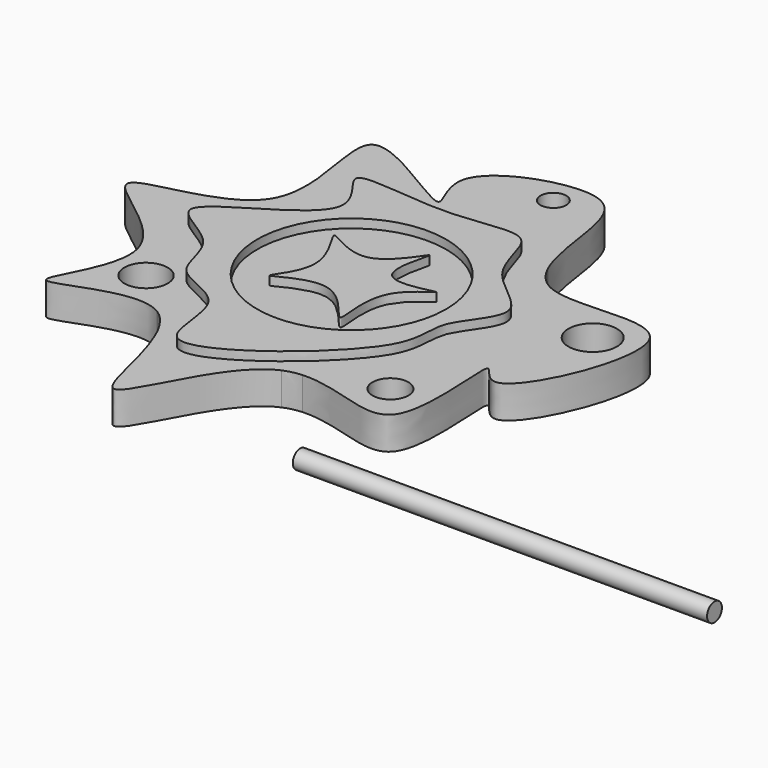
from build123d import *

# Parameters (mm, degrees)
F0_R     = 1.3266147944
F0_R_2   = 1.1040610952
F0_R_3   = 1.4856293309
F0_R_4   = 0.7882424869
F1_DEPTH = 2
F0_R_5   = 5.7945856742
F2_DEPTH = 2.54
F3_R     = 0.568069392
F4_DEPTH = 25.4


with BuildPart() as f1:
    # F0 (on Top) → F1 (new body)
    with BuildSketch(Plane.XY):
        with BuildLine():
            add(Edge.make_bspline(
                [(-10.3611879519, 18.0462677779), (-10.3534947122, 18.04732013), (-10.3464485535, 18.0489561773), (-10.3400231717, 18.0511613673)],
                knots=[0, 0, 0, 0, 0.0008159217, 0.0008159217, 0.0008159217, 0.0008159217], degree=3))
            add(Edge.make_bspline(
                [(-16.328030466, 14.7703708368), (-16.0777830551, 17.1647474658), (-18.9384674421, 24.0503093541), (-10.9426768913, 17.9667263684), (-10.3611879519, 18.0462677779)],
                knots=[0.8847411053, 0.8847411053, 0.8847411053, 0.8847411053, 0.9383290457, 1, 1, 1, 1], degree=3))
            add(Edge.make_bspline(
                [(-16.7616909927, 13.350264866), (-16.5136502492, 13.7595204058), (-16.3828807081, 14.2455616601), (-16.328030466, 14.7703708368)],
                knots=[0.8729954833, 0.8729954833, 0.8729954833, 0.8729954833, 0.8847411053, 0.8847411053, 0.8847411053, 0.8847411053], degree=3))
            add(Edge.make_bspline(
                [(-13.7359780839, 0.7760394568), (-13.7642567215, 0.793738842), (-15.7978179849, 2.00349997), (-22.8466429648, -2.5487526862), (-15.3548952974, 6.094467952), (-27.6246006279, 11.2080666698), (-18.1069238288, 11.1306940699), (-16.7616909927, 13.350264866)],
                knots=[0.6304999298, 0.6304999298, 0.6304999298, 0.6304999298, 0.6313481499, 0.6908201161, 0.7465426875, 0.8092938663, 0.8729954833, 0.8729954833, 0.8729954833, 0.8729954833], degree=3))
            add(Edge.make_bspline(
                [(-12.7324720602, -0.2993813963), (-13.0156097942, 0.1562276051), (-13.3455613883, 0.5316806025), (-13.7359780839, 0.7760394568)],
                knots=[0.6187893475, 0.6187893475, 0.6187893475, 0.6187893475, 0.6304999298, 0.6304999298, 0.6304999298, 0.6304999298], degree=3))
            add(Edge.make_bspline(
                [(-5.2768478841, -0.2791737885), (-7.9289988902, -1.4403188282), (-10.7565569942, -11.5590904962), (-11.360652058, -2.506835459), (-12.7324720602, -0.2993813963)],
                knots=[0.4931839396, 0.4931839396, 0.4931839396, 0.4931839396, 0.5620508454, 0.6187893475, 0.6187893475, 0.6187893475, 0.6187893475], degree=3))
            add(Edge.make_bspline(
                [(-4.1832758995, -0.0263248454), (-4.5607895325, -0.0497565931), (-4.9283322804, -0.1265892775), (-5.2768478841, -0.2791737885)],
                knots=[0.4841342319, 0.4841342319, 0.4841342319, 0.4841342319, 0.4931839396, 0.4931839396, 0.4931839396, 0.4931839396], degree=3))
            add(Edge.make_bspline(
                [(-0.4930524154, 14.4332359741), (1.500043002, 13.5677170511), (9.868936337, 16.7021215402), (3.9262079757, 2.7738392827), (1.5491255083, 8.2220871862), (3.704092928, -3.7111150646), (-1.9092052154, 0.1148235681), (-4.1832758995, -0.0263248454)],
                knots=[0.2049639017, 0.2049639017, 0.2049639017, 0.2049639017, 0.2686543092, 0.3389584126, 0.3680431628, 0.4296205056, 0.4841342319, 0.4841342319, 0.4841342319, 0.4841342319], degree=3))
            add(Edge.make_bspline(
                [(-1.9145389929, 15.9565913165), (-1.6017504496, 15.2725795664), (-1.157793934, 14.7219057277), (-0.4930524154, 14.4332359741)],
                knots=[0.1837217384, 0.1837217384, 0.1837217384, 0.1837217384, 0.2049639017, 0.2049639017, 0.2049639017, 0.2049639017], degree=3))
            add(Edge.make_bspline(
                [(-10.3400231717, 18.0511613673), (-10.0456349068, 18.1521953747), (-12.6933285572, 21.5533035564), (-4.1784954323, 24.4723157304), (-2.7765111724, 20.9169240228), (-2.4881294233, 17.2109294391), (-1.9145389929, 15.9565913165)],
                knots=[0.0008159217, 0.0008159217, 0.0008159217, 0.0008159217, 0.0381985671, 0.0989386344, 0.144767941, 0.1837217384, 0.1837217384, 0.1837217384, 0.1837217384], degree=3))
        make_face()
        with Locations((-16.4759901327, 3.353762643)):
            Circle(F0_R, mode=Mode.SUBTRACT)
        with Locations((0, 1.4853516515)):
            Circle(F0_R_2, mode=Mode.SUBTRACT)
        with BuildLine():
            add(Edge.make_bspline(
                [(-2.7176877845, 13.4601683999), (-3.501931396, 14.598384661), (-3.4662486596, 17.8756620613), (-8.4566276638, 16.0467944457), (-16.3950680376, 17.8072015669), (-10.4647878048, 13.2259633981), (-21.3063999572, 9.3937426178), (-14.9917870912, 7.4899846932), (-15.4288307943, 3.4878418966), (-10.6625831586, 3.1119865259), (-12.1162482115, -4.861141265), (-0.6132198182, 4.1771991646), (-2.2721680967, 7.4855949459), (1.4349171053, 10.7773164203), (-1.8806430789, 12.2453189818), (-2.7176877845, 13.4601683999)],
                knots=[0, 0, 0, 0, 0.06934959, 0.1490619363, 0.2350492123, 0.2994024044, 0.396928226, 0.4645862314, 0.5312642938, 0.6001286029, 0.6741555477, 0.7917120254, 0.8597121728, 0.9259812814, 1, 1, 1, 1], degree=3))
        make_face(mode=Mode.SUBTRACT)
        with Locations((4.2463887812, 11.6766855091)):
            Circle(F0_R_3, mode=Mode.SUBTRACT)
        with Locations((-6.1147997727, 21.6132347635)):
            Circle(F0_R_4, mode=Mode.SUBTRACT)
    extrude(amount=F1_DEPTH)


with BuildPart() as f1b:
    # F0 (on Top) → F1, piece 2 (new body)
    with BuildSketch(Plane.XY):
        with Locations((-8.2211428575, 8.7905701561)):
            Circle(F0_R_5)
        with BuildLine():
            add(Edge.make_bspline(
                [(-6.5394396743, 12.6587244602), (-6.5936514865, 12.7906624869), (-8.3691126147, 9.1721735858), (-12.7328459419, 12.7319038651), (-9.1299548542, 8.5311904713), (-12.4679728699, 5.1516558642), (-7.9833414594, 8.4466114268), (-5.0955682638, 3.1128319072), (-6.6760106178, 8.5832524185), (-2.2806418339, 10.5229746283), (-7.9691483153, 8.5810402036), (-6.4866476028, 12.5302417281), (-6.5394396743, 12.6587244602)],
                knots=[0, 0, 0, 0, 0.1010868913, 0.2005230074, 0.3045767055, 0.3976999971, 0.4999812331, 0.60579593, 0.7122764009, 0.8039989505, 0.90156045, 1, 1, 1, 1], degree=3))
        make_face(mode=Mode.SUBTRACT)
    extrude(amount=F1_DEPTH)


with BuildPart() as f2:
    # F0 (on Top) → F2 (new body)
    with BuildSketch(Plane.XY):
        with BuildLine():
            add(Edge.make_bspline(
                [(-2.7176877845, 13.4601683999), (-3.501931396, 14.598384661), (-3.4662486596, 17.8756620613), (-8.4566276638, 16.0467944457), (-16.3950680376, 17.8072015669), (-10.4647878048, 13.2259633981), (-21.3063999572, 9.3937426178), (-14.9917870912, 7.4899846932), (-15.4288307943, 3.4878418966), (-10.6625831586, 3.1119865259), (-12.1162482115, -4.861141265), (-0.6132198182, 4.1771991646), (-2.2721680967, 7.4855949459), (1.4349171053, 10.7773164203), (-1.8806430789, 12.2453189818), (-2.7176877845, 13.4601683999)],
                knots=[0, 0, 0, 0, 0.06934959, 0.1490619363, 0.2350492123, 0.2994024044, 0.396928226, 0.4645862314, 0.5312642938, 0.6001286029, 0.6741555477, 0.7917120254, 0.8597121728, 0.9259812814, 1, 1, 1, 1], degree=3))
        make_face()
        with Locations((-8.2211428575, 8.7905701561)):
            Circle(F0_R_5, mode=Mode.SUBTRACT)
    extrude(amount=F2_DEPTH)


with BuildPart() as f2b:
    # F0 (on Top) → F2, piece 2 (new body)
    with BuildSketch(Plane.XY):
        with BuildLine():
            add(Edge.make_bspline(
                [(-6.5394396743, 12.6587244602), (-6.5936514865, 12.7906624869), (-8.3691126147, 9.1721735858), (-12.7328459419, 12.7319038651), (-9.1299548542, 8.5311904713), (-12.4679728699, 5.1516558642), (-7.9833414594, 8.4466114268), (-5.0955682638, 3.1128319072), (-6.6760106178, 8.5832524185), (-2.2806418339, 10.5229746283), (-7.9691483153, 8.5810402036), (-6.4866476028, 12.5302417281), (-6.5394396743, 12.6587244602)],
                knots=[0, 0, 0, 0, 0.1010868913, 0.2005230074, 0.3045767055, 0.3976999971, 0.4999812331, 0.60579593, 0.7122764009, 0.8039989505, 0.90156045, 1, 1, 1, 1], degree=3))
        make_face()
    extrude(amount=F2_DEPTH)


with BuildPart() as f4:
    # F3 (on Right) → F4 (new body)
    with BuildSketch(Plane.YZ):
        with Locations((-5.4320292547, 1.0306473123)):
            Circle(F3_R)
    extrude(amount=F4_DEPTH)


solid = Compound([f1.part, f1b.part, f2.part, f2b.part, f4.part])
